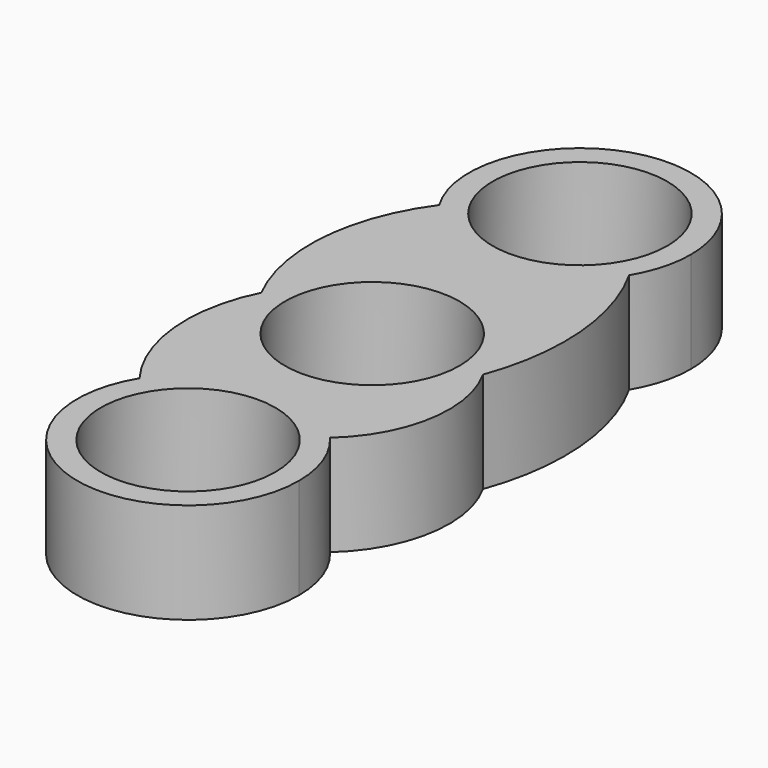
from build123d import *

# Parameters (mm, degrees)
F0_R     = 10.9982
F1_DEPTH = 12.7


with BuildPart() as f1:
    # F0 (on Top) → F1 (new body)
    with BuildSketch(Plane.XY):
        with BuildLine():
            ThreePointArc((13.97, 32.717265), (12.610072, 38.729502), (8.795055, 43.5712))
            ThreePointArc((8.795055, 43.5712), (0, 44.45), (-8.795055, 43.5712))
            ThreePointArc((-8.795055, 43.5712), (-13.75941, 35.133779), (-11.967126, 25.509714))
            ThreePointArc((-11.967126, 25.509714), (0, 18.747265), (11.967126, 25.509714))
            ThreePointArc((11.967126, 25.509714), (13.459971, 28.976935), (13.97, 32.717265))
        make_face()
        with Locations((0, 32.717265)):
            Circle(F0_R, mode=Mode.SUBTRACT)
        with BuildLine():
            ThreePointArc((-8.795055, 43.5712), (0, 44.45), (8.795055, 43.5712))
            ThreePointArc((8.795055, 43.5712), (0, 46.687265), (-8.795055, 43.5712))
        make_face()
        with BuildLine():
            ThreePointArc((13.97, 0), (0, 13.97), (-13.97, 0))
            ThreePointArc((-13.97, 0), (0, -13.97), (13.97, 0))
        make_face()
        Circle(F0_R, mode=Mode.SUBTRACT)
        with BuildLine():
            ThreePointArc((10.616718, -19.915883), (-1.121474, -15.070959), (-11.933009, -21.731975))
            ThreePointArc((-11.933009, -21.731975), (-3.772052, -42.446988), (13.97, -28.995872))
            ThreePointArc((13.97, -28.995872), (13.104893, -24.156174), (10.616718, -19.915883))
        make_face()
        with Locations((0, -28.995872)):
            Circle(F0_R, mode=Mode.SUBTRACT)
        with BuildLine():
            ThreePointArc((13.97, 0), (0, -13.97), (-13.97, 0))
            ThreePointArc((-13.97, 0), (-16.02108, -11.153706), (-11.933009, -21.731975))
            ThreePointArc((-11.933009, -21.731975), (-1.121474, -15.070959), (10.616718, -19.915883))
            ThreePointArc((10.616718, -19.915883), (15.794358, -10.547412), (13.97, 0))
        make_face()
        with BuildLine():
            ThreePointArc((11.967126, 25.509714), (0, 18.747265), (-11.967126, 25.509714))
            ThreePointArc((-11.967126, 25.509714), (-16.580743, 13.038464), (-13.97, 0))
            ThreePointArc((-13.97, 0), (0, 13.97), (13.97, 0))
            ThreePointArc((13.97, 0), (15.755798, 12.973695), (11.967126, 25.509714))
        make_face()
    extrude(amount=F1_DEPTH)


solid = f1.part
